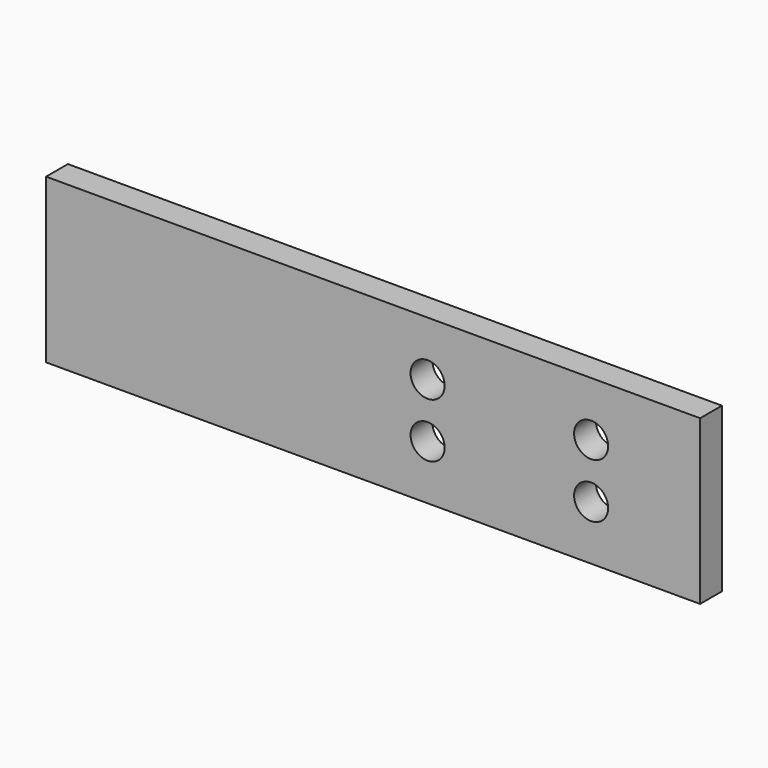
from build123d import *

# Parameters (mm, degrees)
F0_W     = 76.2
F0_H     = 19.05
F1_DEPTH = 1.5875
F2_R     = 1.984375
F3_DEPTH = 3.176


with BuildPart() as f1:
    # F0 (on Front) → F1 (new body, symmetric)
    with BuildSketch(Plane.XZ):
        Rectangle(F0_W, F0_H)
    extrude(amount=F1_DEPTH, both=True)

    # F2 (on face) → F3 (cut, through all)
    with BuildSketch(Plane.XZ.offset(1.5875)):
        with Locations((25.4, 3.175)):
            Circle(F2_R)
        with Locations((25.4, -3.175)):
            Circle(F2_R)
        with Locations((6.35, 3.175)):
            Circle(F2_R)
        with Locations((6.35, -3.175)):
            Circle(F2_R)
    extrude(amount=-F3_DEPTH, mode=Mode.SUBTRACT)


solid = f1.part
